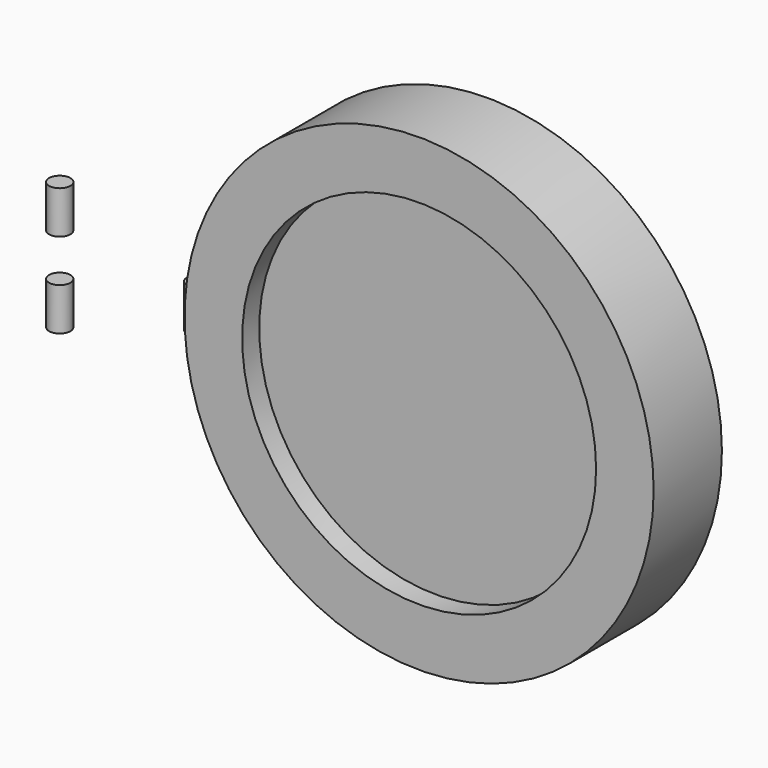
from build123d import *

# Parameters (mm, degrees)
F1_START      = 6.35
F0_R          = 3.175
F1_DEPTH      = 12.7
F3_START      = -6.35
F2_R          = 3.175
F3_DEPTH      = 12.7
F4_R          = 3.175
F5_DEPTH      = 6.35
F5_DEPTH_BACK = 6.35
F6_R          = 69.85
F7_DEPTH      = 19.05
F8_R          = 69.85
F8_R_2        = 52.705
F9_DEPTH      = 6.35


with BuildPart() as f1:
    # F0 (on Top) → F1 (new body)
    with BuildSketch(Plane.XY.offset(F1_START)):
        with Locations((-76.2, 0)):
            Circle(F0_R)
    extrude(amount=F1_DEPTH)


with BuildPart() as f3:
    # F2 (on Top) → F3 (new body)
    with BuildSketch(Plane.XY.offset(F3_START)):
        with Locations((-76.2, 0)):
            Circle(F2_R)
    extrude(amount=-F3_DEPTH)


with BuildPart() as f5:
    # F4 (on Top) → F5 (new body, two sides)
    with BuildSketch(Plane.XY) as f5_sk:
        with Locations((-35.1287453057, 0)):
            Circle(F4_R)
    extrude(amount=-F5_DEPTH)
    extrude(f5_sk.sketch, amount=F5_DEPTH_BACK)

    # F6 (on Front) → F7 (join)
    with BuildSketch(Plane.XZ):
        with Locations((35.9026640654, 0)):
            Circle(F6_R)
    extrude(amount=-F7_DEPTH)

    # F8 (on face) → F9 (join)
    with BuildSketch(Plane.XZ):
        with Locations((35.9026640654, 0)):
            Circle(F8_R)
        with Locations((35.9026640654, 0)):
            Circle(F8_R_2, mode=Mode.SUBTRACT)
    extrude(amount=F9_DEPTH)


solid = Compound([f1.part, f3.part, f5.part])
